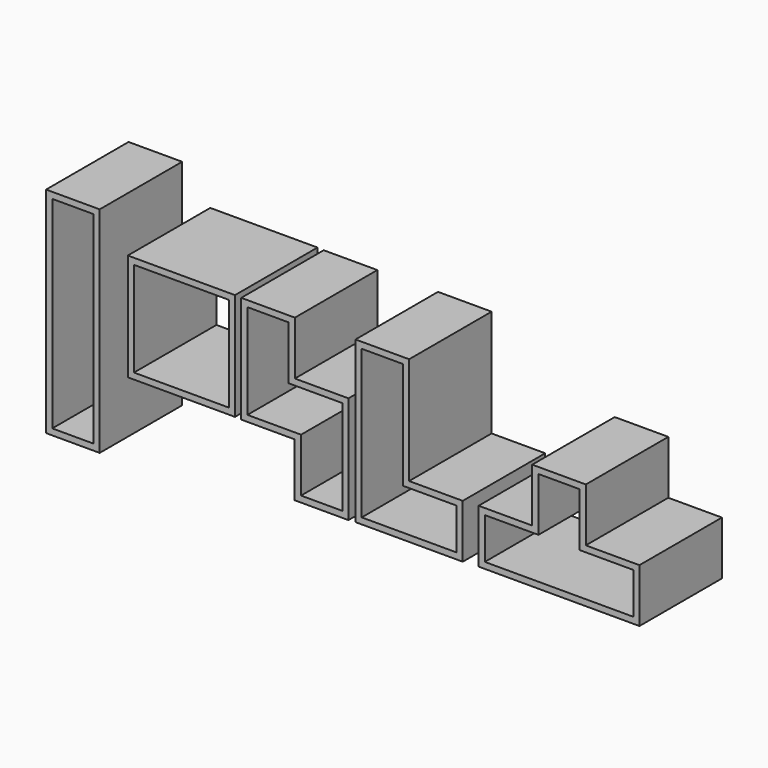
from build123d import *

# Parameters (mm, degrees)
F5_DEPTH = 250
F6_DEPTH = 250
F7_DEPTH = 250
F3_W     = 130
F3_H     = 520
F3_W_2   = 100
F3_H_2   = 490
F8_DEPTH = 250
F1_W     = 260
F1_H     = 260
F1_W_2   = 230
F1_H_2   = 230
F9_DEPTH = 250


with BuildPart() as f5:
    # F2 (on Front) → F5 (new body)
    with BuildSketch(Plane.XZ):
        Polygon((211.136405, 208.652004), (81.136405, 208.652004), (81.136405, -181.347996), (341.136405, -181.347996), (341.136405, -51.347996), (211.136405, -51.347996), align=None)
        Polygon((96.136405, -166.347996), (96.136405, 193.652004), (196.136405, 193.652004), (196.136405, -66.347996), (326.136405, -66.347996), (326.136405, -166.347996), align=None, mode=Mode.SUBTRACT)
    extrude(amount=F5_DEPTH)


with BuildPart() as f6:
    # F4 (on Front) → F6 (new body)
    with BuildSketch(Plane.XZ):
        Polygon((509.657894, -49.271648), (379.657894, -49.271648), (379.657894, -179.271648), (769.657894, -179.271648), (769.657894, -49.271648), (639.657894, -49.271648), (639.657894, 80.728352), (509.657894, 80.728352), align=None)
        Polygon((524.657894, -64.271648), (524.657894, 65.728352), (624.657894, 65.728352), (624.657894, -64.271648), (754.657894, -64.271648), (754.657894, -164.271648), (394.657894, -164.271648), (394.657894, -64.271648), align=None, mode=Mode.SUBTRACT)
    extrude(amount=F6_DEPTH)


with BuildPart() as f7:
    # F0 (on Front) → F7 (new body)
    with BuildSketch(Plane.XZ):
        Polygon((-65.992579, 207.371857), (-195.992579, 207.371857), (-195.992579, -52.628143), (-67.000002, -52.628143), (-67.000002, -182.628143), (64.007421, -182.628143), (64.007421, 77.371857), (-65.992579, 77.371857), align=None)
        Polygon((-180.992579, -37.628143), (-180.992579, 192.371857), (-80.992579, 192.371857), (-80.992579, 62.371857), (49.007421, 62.371857), (49.007421, -167.628143), (-50.992579, -167.628143), (-50.992579, -37.628143), align=None, mode=Mode.SUBTRACT)
    extrude(amount=F7_DEPTH)


with BuildPart() as f8:
    # F3 (on Front) → F8 (new body)
    with BuildSketch(Plane.XZ):
        with Locations((-604.272395, 24.629812)):
            Rectangle(F3_W, F3_H)
        with Locations((-604.272395, 24.629812)):
            Rectangle(F3_W_2, F3_H_2, mode=Mode.SUBTRACT)
    extrude(amount=F8_DEPTH)


with BuildPart() as f9:
    # F1 (on Front) → F9 (new body)
    with BuildSketch(Plane.XZ):
        with Locations((-341.110463, 78.26707)):
            Rectangle(F1_W, F1_H)
        with Locations((-341.110463, 78.26707)):
            Rectangle(F1_W_2, F1_H_2, mode=Mode.SUBTRACT)
    extrude(amount=F9_DEPTH)


solid = Compound([f5.part, f6.part, f7.part, f8.part, f9.part])
